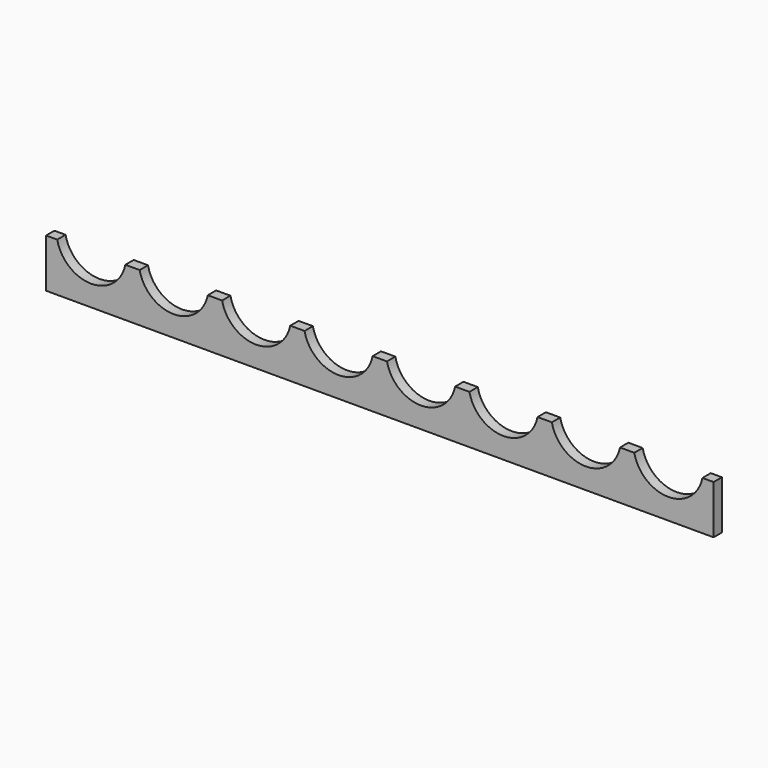
from build123d import *

# Parameters (mm, degrees)
F1_DEPTH = 19.05


with BuildPart() as f1:
    # F0 (on Front) → F1 (new body)
    with BuildSketch(Plane.XZ):
        with BuildLine():
            Line((-609.6, -44.45), (609.6, -44.45))
            Line((609.6, -44.45), (609.6, 44.45))
            Line((609.6, 44.45), (589.267039, 44.45))
            ThreePointArc((589.267039, 44.45), (527.05, -6.35), (464.832961, 44.45))
            Line((464.832961, 44.45), (438.681325, 44.45))
            ThreePointArc((438.681325, 44.45), (376.464286, -6.35), (314.247246, 44.45))
            Line((314.247246, 44.45), (288.095611, 44.45))
            ThreePointArc((288.095611, 44.45), (225.878571, -6.35), (163.661532, 44.45))
            Line((163.661532, 44.45), (137.509897, 44.45))
            ThreePointArc((137.509897, 44.45), (75.292857, -6.35), (13.075818, 44.45))
            Line((13.075818, 44.45), (-13.075818, 44.45))
            ThreePointArc((-13.075818, 44.45), (-75.292857, -6.35), (-137.509897, 44.45))
            Line((-137.509897, 44.45), (-163.661532, 44.45))
            ThreePointArc((-163.661532, 44.45), (-225.878571, -6.35), (-288.095611, 44.45))
            Line((-288.095611, 44.45), (-314.247246, 44.45))
            ThreePointArc((-314.247246, 44.45), (-376.464286, -6.35), (-438.681325, 44.45))
            Line((-438.681325, 44.45), (-464.832961, 44.45))
            ThreePointArc((-464.832961, 44.45), (-527.05, -6.35), (-589.267039, 44.45))
            Line((-589.267039, 44.45), (-609.6, 44.45))
            Line((-609.6, 44.45), (-609.6, -44.45))
        make_face()
    extrude(amount=-F1_DEPTH)


solid = f1.part
